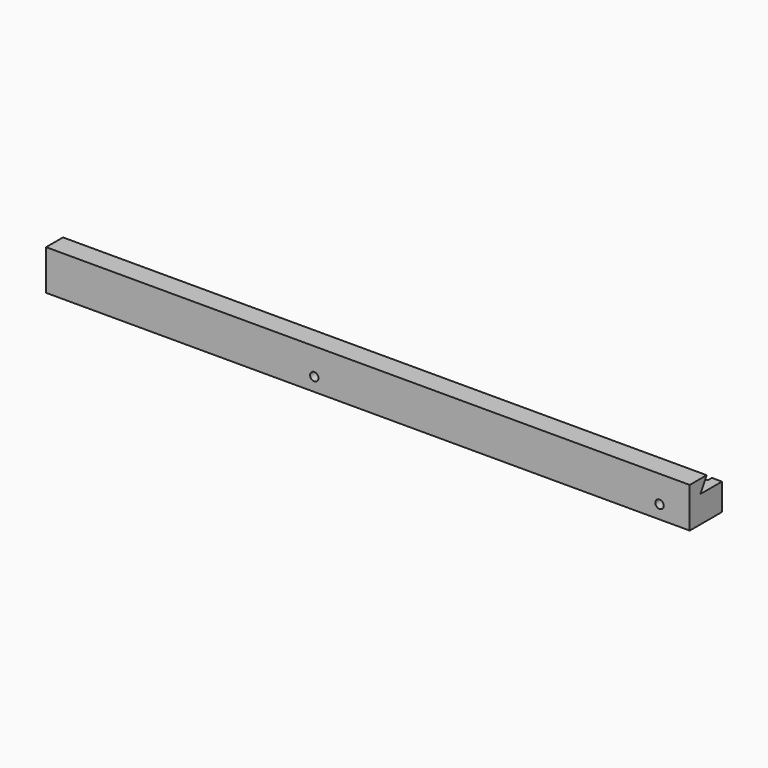
from build123d import *

# Parameters (mm, degrees)
F1_DEPTH      = 304.8
F1_DEPTH_BACK = 304.8
F2_W          = 38.1
F2_H          = 4.7625
F3_DEPTH      = 25.401
F5_D          = 7.9375
F7_DEPTH      = 609.6


with BuildPart() as f1:
    # F0 (on Right) → F1 (new body, two sides)
    with BuildSketch(Plane.YZ) as f1_sk:
        Polygon((0, 38.1), (0, 0), (38.1, 0), (38.1, 25.4), (12.7, 25.4), (12.7, 38.1), align=None)
    extrude(amount=F1_DEPTH)
    extrude(f1_sk.sketch, amount=-F1_DEPTH_BACK)

    # F2 (on face) → F3 (cut, through all)
    with BuildSketch(Plane.XY.offset(25.4)):
        with Locations((-50.8, 35.71875)):
            Rectangle(F2_W, F2_H)
        with Locations((276.225, 35.71875)):
            Rectangle(F2_W, F2_H)
    extrude(amount=-F3_DEPTH, mode=Mode.SUBTRACT)

    # F5 (through all)
    with Locations(Plane(origin=(0, 33.3375, 0), x_dir=(-1, 0, 0), z_dir=(0, 1, 0))):
        with Locations((-276.225, 12.7), (50.8, 12.7)):
            Hole(F5_D / 2)

    # F6 (on face) → F7 (join, through all)
    with BuildSketch(Plane.YZ.offset(304.8)):
        Polygon((20.032348, 38.1), (12.7, 38.1), (12.7, 25.4), align=None)
    extrude(amount=-F7_DEPTH)


solid = f1.part
